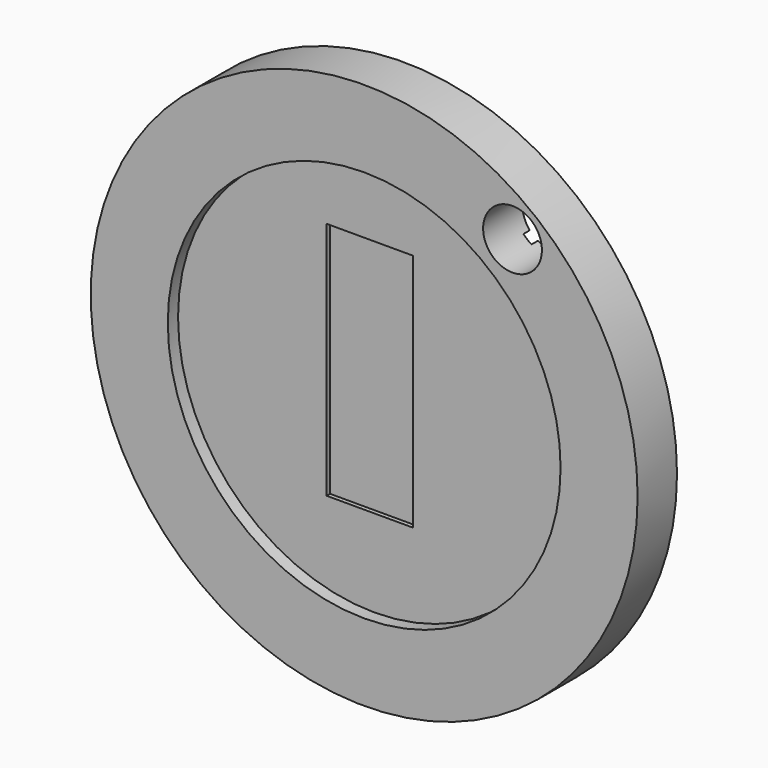
from build123d import *

# Parameters (mm, degrees)
F0_R      = 38.330172
F1_DEPTH  = 6.9
F2_R      = 27.529056
F3_DEPTH  = 1.8
F4_R      = 29.262122
F5_DEPTH  = 1.1
F8_DEPTH  = 1.5
F6_W      = 12.082048
F6_H      = 33.561243
F9_DEPTH  = 0.6
F10_R     = 4.120832
F11_DEPTH = 25


with BuildPart() as f1:
    # F0 (on Front) → F1 (new body)
    with BuildSketch(Plane.XZ):
        with Locations((-38.259815, 37.991326)):
            Circle(F0_R)
    extrude(amount=F1_DEPTH)

    # F2 (on face) → F3 (cut)
    with BuildSketch(Plane.XZ.offset(6.9)):
        with Locations((-38.259815, 37.991326)):
            Circle(F2_R)
    extrude(amount=-F3_DEPTH, mode=Mode.SUBTRACT)

    # F4 (on face) → F5 (cut)
    with BuildSketch(Plane(origin=(0, 0, 0), x_dir=(-1, 0, 0), z_dir=(0, 1, 0))):
        with Locations((38.259815, 37.991326)):
            Circle(F4_R)
    extrude(amount=-F5_DEPTH, mode=Mode.SUBTRACT)

    # F7 (on face) → F8 (cut)
    with BuildSketch(Plane(origin=(0, -1.1, 0), x_dir=(-1, 0, 0), z_dir=(0, 1, 0))):
        Polygon((44.951111, 56.248643), (32.869063, 56.248643), (32.600574, 23.22438), (44.951111, 23.22438), align=None)
    extrude(amount=-F8_DEPTH, mode=Mode.SUBTRACT)

    # F6 (on face) → F9 (cut)
    with BuildSketch(Plane.XZ.offset(5.1)):
        with Locations((-38.931042, 39.468021)):
            Rectangle(F6_W, F6_H)
    extrude(amount=-F9_DEPTH, mode=Mode.SUBTRACT)

    # F10 (on face) → F11 (cut)
    with BuildSketch(Plane.XZ.offset(6.9)):
        with Locations((-17.46659, 64.012818)):
            Circle(F10_R)
    extrude(amount=-F11_DEPTH, mode=Mode.SUBTRACT)


solid = f1.part
